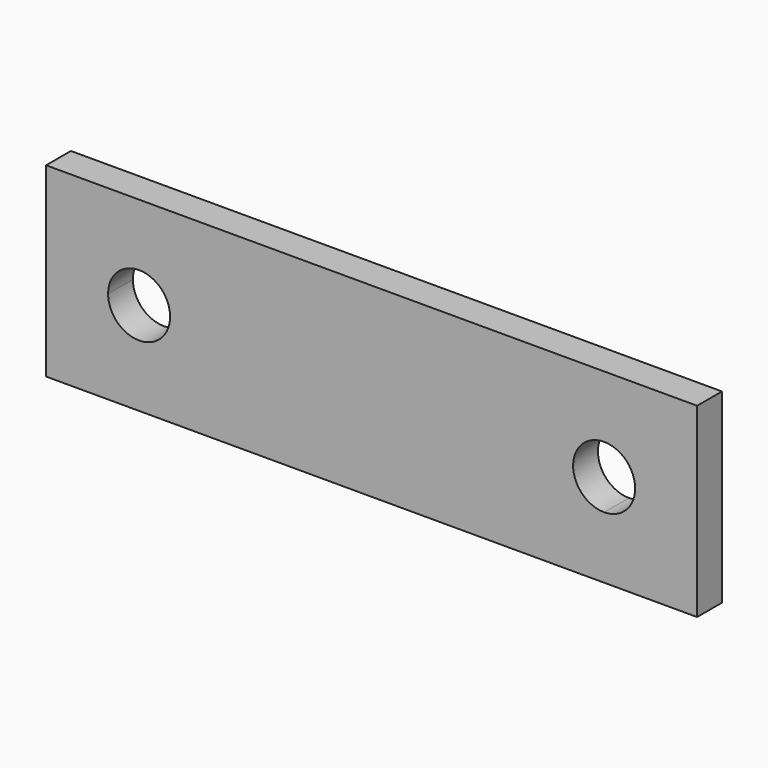
from build123d import *

# Parameters (mm, degrees)
F1_DEPTH = 3.175


with BuildPart() as f1:
    # F0 (on Front) → F1 (new body)
    with BuildSketch(Plane.XZ):
        with BuildLine():
            Line((-22.467041, 24.910224), (-31.992041, 24.910224))
            Line((-31.992041, 24.910224), (-31.992041, 15.385224))
            Line((-31.992041, 15.385224), (-25.642041, 15.385224))
            ThreePointArc((-25.642041, 15.385224), (-24.712105, 17.630288), (-22.467041, 18.560224))
            Line((-22.467041, 18.560224), (-22.467041, 24.910224))
        make_face()
        with BuildLine():
            Line((34.682959, 24.910224), (-22.467041, 24.910224))
            Line((-22.467041, 24.910224), (-22.467041, 18.560224))
            ThreePointArc((-22.467041, 18.560224), (-20.221977, 17.630288), (-19.292041, 15.385224))
            ThreePointArc((-19.292041, 15.385224), (-22.467041, 12.210224), (-25.642041, 15.385224))
            Line((-25.642041, 15.385224), (-31.992041, 15.385224))
            Line((-31.992041, 15.385224), (-31.992041, 5.860224))
            Line((-31.992041, 5.860224), (25.157959, 5.860224))
            Line((25.157959, 5.860224), (25.157959, 12.210224))
            ThreePointArc((25.157959, 12.210224), (22.912895, 17.630288), (28.332959, 15.385224))
            Line((28.332959, 15.385224), (34.682959, 15.385224))
            Line((34.682959, 15.385224), (34.682959, 24.910224))
        make_face()
        with BuildLine():
            Line((34.682959, 5.860224), (34.682959, 15.385224))
            Line((34.682959, 15.385224), (28.332959, 15.385224))
            ThreePointArc((28.332959, 15.385224), (27.403023, 13.14016), (25.157959, 12.210224))
            Line((25.157959, 12.210224), (25.157959, 5.860224))
            Line((25.157959, 5.860224), (34.682959, 5.860224))
        make_face()
    extrude(amount=F1_DEPTH)


solid = f1.part
